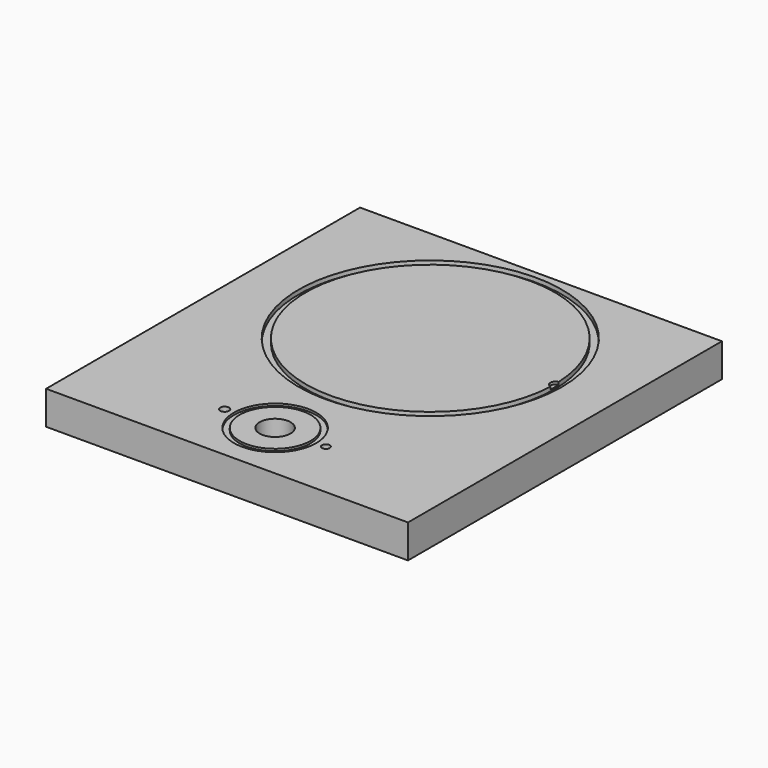
from build123d import *

# Parameters (mm, degrees)
CYLINDER163_R     = 2.58
CYLINDER163_DEPTH = 29
CYLINDER161_R     = 72.517
CYLINDER161_DEPTH = 3
CYLINDER160_R     = 76.708
CYLINDER160_DEPTH = 3
CYLINDER162_R     = 3.02
CYLINDER162_DEPTH = 2
CYLINDER159_R     = 9
CYLINDER159_DEPTH = 21
CYLINDER158_R     = 20.635
CYLINDER158_DEPTH = 41.275
CYLINDER157_R     = 24
CYLINDER157_DEPTH = 3.175
CYLINDER164_R     = 2.28
CYLINDER164_DEPTH = 29
BOX_W             = 210.82
BOX_H             = 228.6
BOX_DEPTH         = 19.5


with BuildPart() as cylinder015:
    # Cylinder163 → Cylinder163 (new body)
    with BuildSketch(Plane(origin=(76, 35, 14), x_dir=(1, 0, 0), z_dir=(0, 0, 1))):
        Circle(CYLINDER163_R)
    extrude(amount=CYLINDER163_DEPTH)


with BuildPart() as cylinder013:
    # Cylinder161 → Cylinder161 (new body)
    with BuildSketch(Plane(origin=(105.41, 148, 17), x_dir=(1, 0, 0), z_dir=(0, 0, 1))):
        Circle(CYLINDER161_R)
    extrude(amount=CYLINDER161_DEPTH)


with BuildPart() as cut021:
    # Cylinder160 → Cylinder160 (new body)
    with BuildSketch(Plane(origin=(105.41, 148, 17), x_dir=(1, 0, 0), z_dir=(0, 0, 1))):
        Circle(CYLINDER160_R)
    extrude(amount=CYLINDER160_DEPTH)

    # Cut021: cut Cylinder013
    add(cylinder013.part, mode=Mode.SUBTRACT)


with BuildPart() as cylinder014:
    # Cylinder162 → Cylinder162 (new body)
    with BuildSketch(Plane(origin=(178.41, 148, 18), x_dir=(1, 0, 0), z_dir=(0, 0, 1))):
        Circle(CYLINDER162_R)
    extrude(amount=CYLINDER162_DEPTH)


with BuildPart() as cylinder011:
    # Cylinder159 → Cylinder159 (new body)
    with BuildSketch(Plane(origin=(105.41, 35, 0), x_dir=(1, 0, 0), z_dir=(0, 0, 1))):
        Circle(CYLINDER159_R)
    extrude(amount=CYLINDER159_DEPTH)


with BuildPart() as cylinder010:
    # Cylinder158 → Cylinder158 (new body)
    with BuildSketch(Plane.XY):
        Circle(CYLINDER158_R)
    extrude(amount=CYLINDER158_DEPTH)


with BuildPart() as cut020:
    # Cylinder157 → Cylinder157 (new body)
    with BuildSketch(Plane.XY):
        Circle(CYLINDER157_R)
    extrude(amount=CYLINDER157_DEPTH)

    # Cut020: cut Cylinder010
    add(cylinder010.part, mode=Mode.SUBTRACT)


with BuildPart() as cut020_1:
    # Cut020 placement: moved
    add(cut020.part.moved(Location((105.41, 35, 18.25))))


with BuildPart() as fusion058:
    # Cylinder164 → Cylinder164 (new body)
    with BuildSketch(Plane(origin=(135, 35, 14), x_dir=(1, 0, 0), z_dir=(0, 0, 1))):
        Circle(CYLINDER164_R)
    extrude(amount=CYLINDER164_DEPTH)

    # Fusion058: union Cylinder015, Cut021, Cylinder014, Cylinder011, Cut020
    add(cylinder015.part)
    add(cut021.part)
    add(cylinder014.part)
    add(cylinder011.part)
    add(cut020_1.part)


with BuildPart() as model_model_cut022:
    # Box → Box (new body)
    with BuildSketch(Plane.XY):
        with Locations((105.41, 114.3)):
            Rectangle(BOX_W, BOX_H)
    extrude(amount=BOX_DEPTH)

    # Cut022: cut Fusion058
    add(fusion058.part, mode=Mode.SUBTRACT)


solid = model_model_cut022.part
